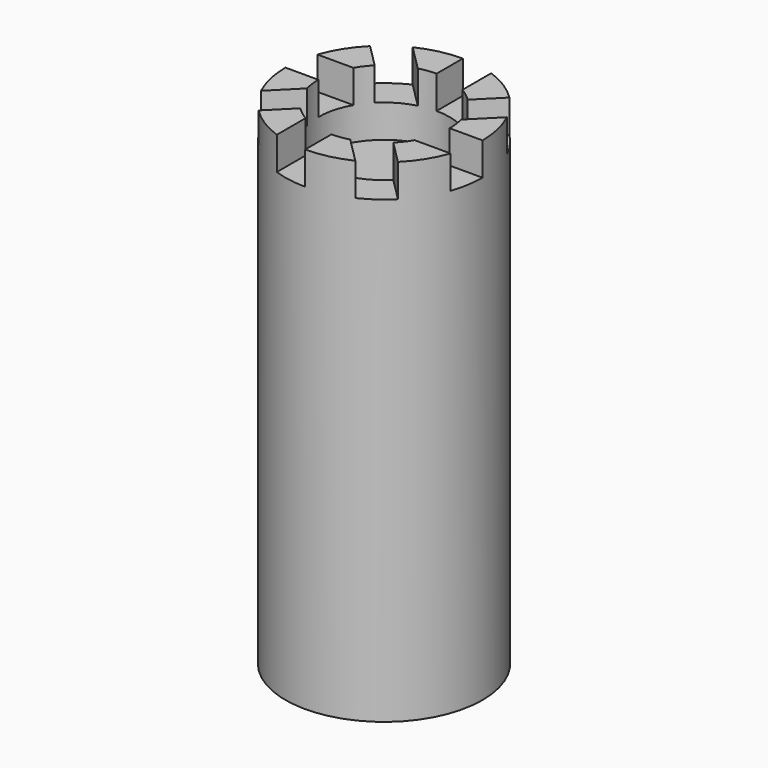
from build123d import *

# Parameters (mm, degrees)
BOX_W             = 1
BOX_H             = 2
BOX_DEPTH         = 1
ARRAY_COUNT       = 8
CYLINDER001_R     = 2
CYLINDER001_DEPTH = 10
CYLINDER_R        = 3
CYLINDER_DEPTH    = 15


with BuildPart() as array:
    # Box → Box (new body)
    with BuildSketch(Plane(origin=(0, 1, 14), x_dir=(1, 0, 0), z_dir=(0, 0, 1))):
        with Locations((0.5, 1)):
            Rectangle(BOX_W, BOX_H)
    extrude(amount=BOX_DEPTH)

    # Array: Array ×8 about axis
    array_axis = Axis((0, 0, 0), (0, 0, 1))


with BuildPart() as array_1:
    add(array.part)
    for i in range(1, ARRAY_COUNT):
        add(array.part.rotate(array_axis, i * 360 / ARRAY_COUNT))


with BuildPart() as cilindro:
    # Cylinder001 → Cylinder001 (new body)
    with BuildSketch(Plane.XY.offset(13)):
        Circle(CYLINDER001_R)
    extrude(amount=CYLINDER001_DEPTH)


with BuildPart() as cut001:
    # Cylinder → Cylinder (new body)
    with BuildSketch(Plane.XY):
        Circle(CYLINDER_R)
    extrude(amount=CYLINDER_DEPTH)

    # Cut: cut Cilindro
    add(cilindro.part, mode=Mode.SUBTRACT)

    # Cut001: cut Array
    add(array_1.part, mode=Mode.SUBTRACT)


solid = cut001.part
